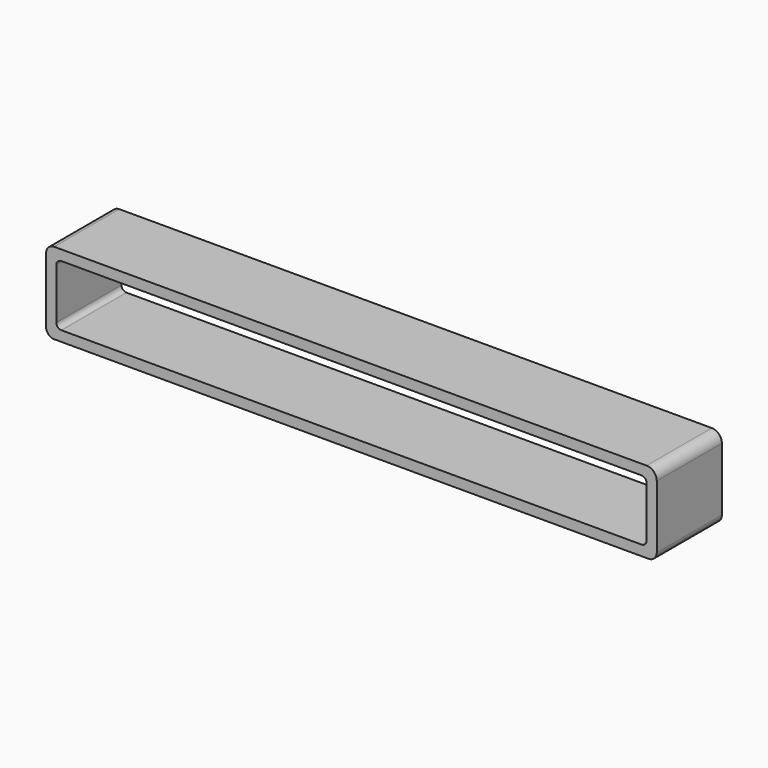
from build123d import *

# Parameters (mm, degrees)
F0_W     = 381
F0_H     = 50.8
F1_DEPTH = 50.8
F2_R     = 6.35
F3_R     = 5.08
F5_W     = 368.3
F5_H     = 37.989244
F6_DEPTH = 50.8
F7_R     = 3.175


with BuildPart() as f1:
    # F0 (on Front) → F1 (new body)
    with BuildSketch(Plane.XZ):
        Rectangle(F0_W, F0_H)
    extrude(amount=F1_DEPTH)

    # F2
    f2_edges = [f1.edges().sort_by_distance(p)[0] for p in [
        (190.5, -25.4, 25.4),
    ]]
    fillet(f2_edges, radius=F2_R)

    # F3
    f3_edges = [f1.edges().sort_by_distance(p)[0] for p in [
        (190.5, -25.4, -25.4),
        (-190.5, -25.4, 25.4),
        (-190.5, -25.4, -25.4),
    ]]
    fillet(f3_edges, radius=F3_R)


with BuildPart() as f1_1:
    # F4: moved
    add(f1.part.moved(Location((0, 50.8, 0))))

    # F5 (on Front) → F6 (cut)
    with BuildSketch(Plane.XZ):
        Rectangle(F5_W, F5_H)
    extrude(amount=-F6_DEPTH, mode=Mode.SUBTRACT)

    # F7
    f7_edges = [f1_1.edges().sort_by_distance(p)[0] for p in [
        (184.15, 25.4, -18.994622),
        (184.15, 25.4, 18.994622),
        (-184.15, 25.4, 18.994622),
        (-184.15, 25.4, -18.994622),
    ]]
    fillet(f7_edges, radius=F7_R)


with BuildPart() as f1_2:
    # F8: moved
    add(f1_1.part.moved(Location((0, 50.8, 0))))


with BuildPart() as f1_3:
    # F9: moved
    add(f1_2.part.moved(Location((0, 0, -101.6))))


solid = f1_3.part
